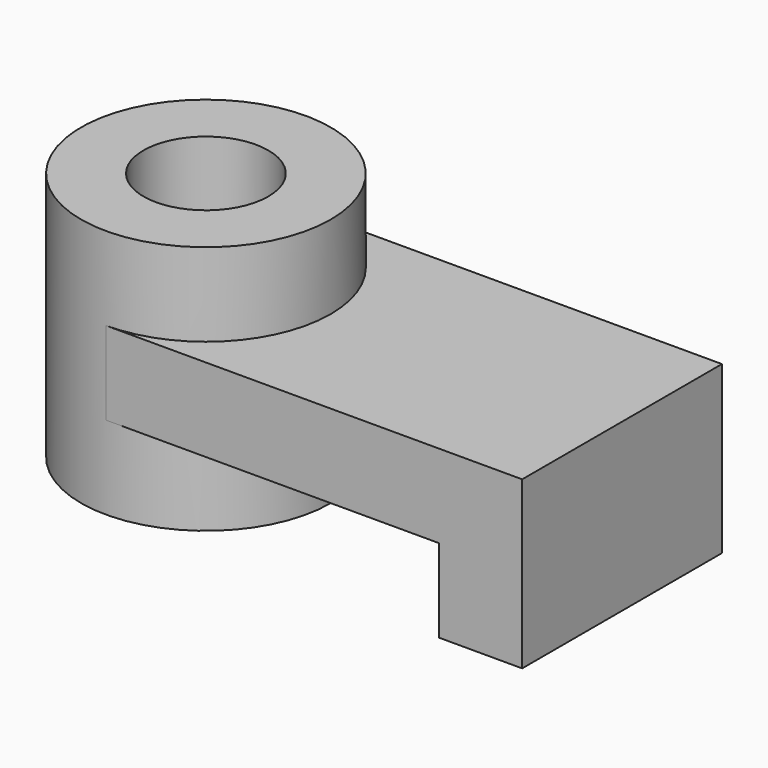
from build123d import *

# Parameters (mm, degrees)
F0_R     = 9.525
F1_DEPTH = 6.35
F2_R     = 19.05
F2_R_2   = 9.525
F3_DEPTH = 19.05
F4_W     = 12.7
F4_H     = 38.1
F5_DEPTH = 25.4


with BuildPart() as f1:
    # F0 (on Top) → F1 (new body, symmetric)
    with BuildSketch(Plane.XY):
        with BuildLine():
            ThreePointArc((-6.35, 0), (-11.929616, 13.470384), (-25.4, 19.05))
            ThreePointArc((-25.4, 19.05), (-44.45, 0), (-25.4, -19.05))
            ThreePointArc((-25.4, -19.05), (-11.929616, -13.470384), (-6.35, 0))
        make_face()
        with Locations((-25.4, 0)):
            Circle(F0_R, mode=Mode.SUBTRACT)
        with BuildLine():
            Line((25.4, 19.05), (-25.4, 19.05))
            ThreePointArc((-25.4, 19.05), (-11.929616, 13.470384), (-6.35, 0))
            ThreePointArc((-6.35, 0), (-11.929616, -13.470384), (-25.4, -19.05))
            Line((-25.4, -19.05), (25.4, -19.05))
            Line((25.4, -19.05), (25.4, 19.05))
        make_face()
    extrude(amount=F1_DEPTH, both=True)

    # F2 (on Top) → F3 (join, symmetric)
    with BuildSketch(Plane.XY):
        with Locations((-25.4, 0)):
            Circle(F2_R)
        with Locations((-25.4, 0)):
            Circle(F2_R_2, mode=Mode.SUBTRACT)
    extrude(amount=F3_DEPTH, both=True)

    # F4 (on face) → F5 (join)
    with BuildSketch(Plane.XY.offset(6.35)):
        with Locations((31.75, 0)):
            Rectangle(F4_W, F4_H)
    extrude(amount=-F5_DEPTH)


solid = f1.part
